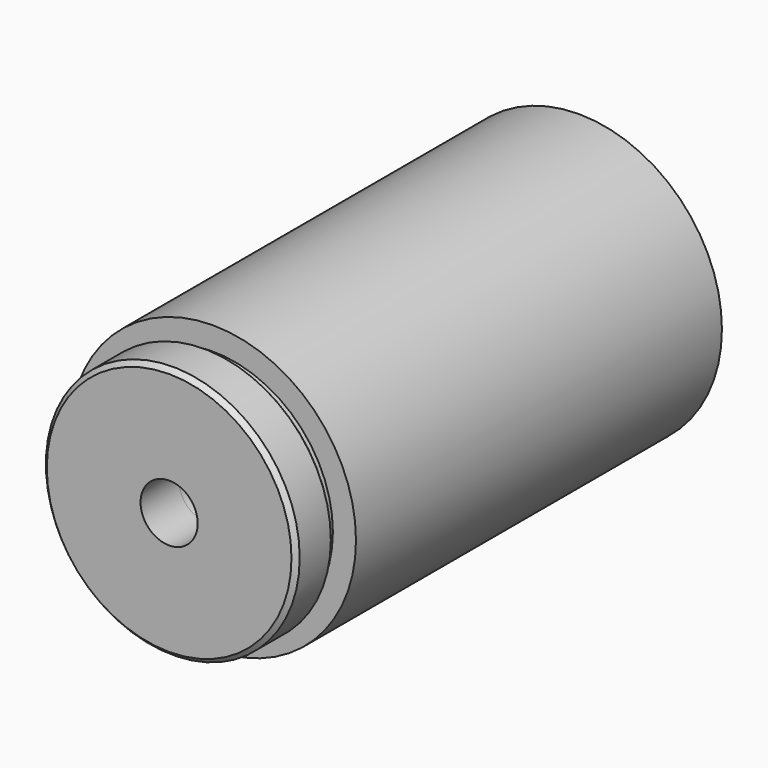
from build123d import *

# Parameters (mm, degrees)
F0_R           = 7.9375
F0_R_2         = 6.6548
F0_R_3         = 1.5875
F1_DEPTH       = 25.4
F3_D           = 7.9375
F3_DEPTH       = 19.05
F3_CSINK_D     = 9.525
F3_CSINK_ANGLE = 60
F3_TIP         = 2.3846655818
F4_DEPTH       = 0.381
F5_R           = 7.0485
F5_R_2         = 1.5875
F6_DEPTH       = 2.667
F7_SIZE        = 0.254


with BuildPart() as f1:
    # F0 (on Front) → F1 (new body)
    with BuildSketch(Plane.XZ):
        Circle(F0_R)
        Circle(F0_R_2, mode=Mode.SUBTRACT)
        Circle(F0_R_2)
        Circle(F0_R_3, mode=Mode.SUBTRACT)
    extrude(amount=-F1_DEPTH)

    # F3
    with Locations(Plane(origin=(0, 25.4, 0), x_dir=(-1, 0, 0), z_dir=(0, 1, 0))):
        with Locations((0, 0)):
            CounterSinkHole(F3_D / 2, F3_CSINK_D / 2, depth=F3_DEPTH, counter_sink_angle=F3_CSINK_ANGLE)
            with Locations((0, 0, -(F3_DEPTH + F3_TIP / 2))):  # 118° drill point
                Cone(0, F3_D / 2, F3_TIP, mode=Mode.SUBTRACT)

    # F0 (on Front) → F4 (join)
    with BuildSketch(Plane.XZ):
        Circle(F0_R_2)
        Circle(F0_R_3, mode=Mode.SUBTRACT)
    extrude(amount=F4_DEPTH)

    # F5 (on face) → F6 (join)
    with BuildSketch(Plane.XZ.offset(0.381)):
        Circle(F5_R)
        Circle(F5_R_2, mode=Mode.SUBTRACT)
    extrude(amount=F6_DEPTH)

    # F7
    f7_edges = [f1.edges().sort_by_distance(p)[0] for p in [
        (-7.0485, -3.048, 0),
        (-7.0485, -0.381, 0),
    ]]
    chamfer(f7_edges, length=F7_SIZE)


solid = f1.part
